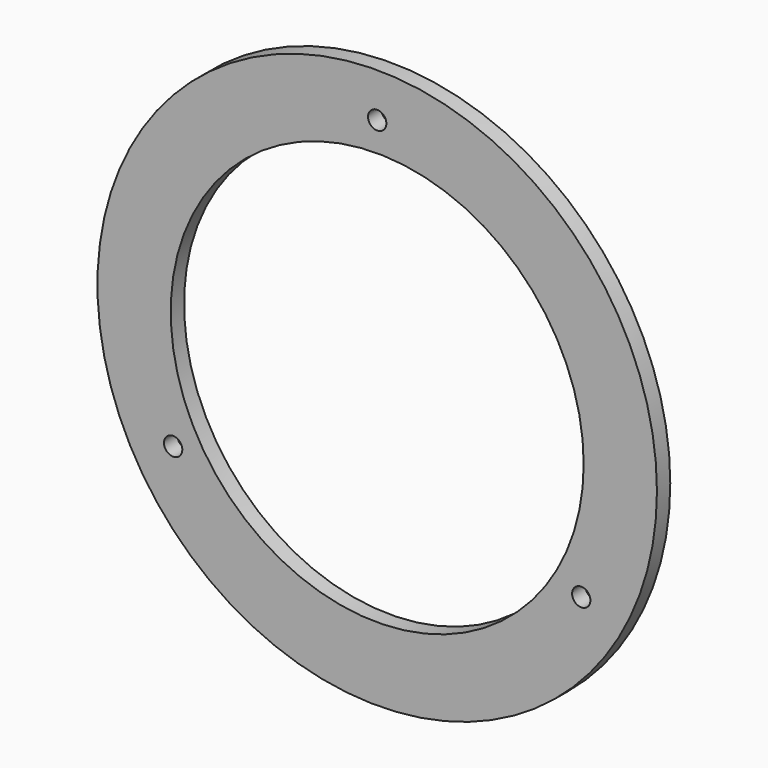
from build123d import *

# Parameters (mm, degrees)
F0_R     = 84
F0_R_2   = 62
F1_DEPTH = 5
F2_R     = 2.75
F3_DEPTH = 5.001


with BuildPart() as f1:
    # F0 (on Front) → F1 (new body)
    with BuildSketch(Plane.XZ):
        Circle(F0_R)
        Circle(F0_R_2, mode=Mode.SUBTRACT)
    extrude(amount=-F1_DEPTH)

    # F2 (on face) → F3 (cut, through all)
    with BuildSketch(Plane.XZ):
        with Locations((0, 70.75)):
            Circle(F2_R)
        with Locations((-61.271297, -35.375)):
            Circle(F2_R)
        with Locations((61.271297, -35.375)):
            Circle(F2_R)
    extrude(amount=-F3_DEPTH, mode=Mode.SUBTRACT)


solid = f1.part
